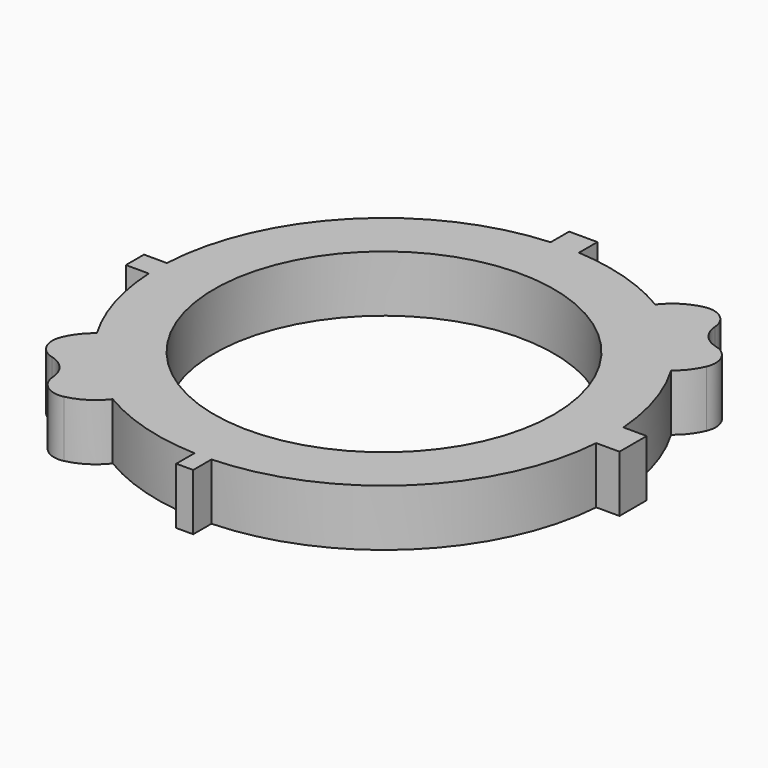
from build123d import *

# Parameters (mm, degrees)
F0_R     = 38.1
F1_DEPTH = 12.7
F2_R     = 5.08


with BuildPart() as f1:
    # F0 (on Top) → F1 (new body)
    with BuildSketch(Plane.XY):
        with BuildLine():
            ThreePointArc((50.656924, -3.81), (50.764218, -1.906343), (50.8, 0))
            ThreePointArc((50.8, 0), (50.764218, 1.906343), (50.656924, 3.81))
            ThreePointArc((50.656924, 3.81), (48.456851, 15.250362), (43.708314, 25.888671))
            ThreePointArc((43.708314, 25.888671), (35.921024, 35.921024), (25.888671, 43.708314))
            ThreePointArc((25.888671, 43.708314), (14.94649, 48.551441), (3.175, 50.700684))
            ThreePointArc((3.175, 50.700684), (0, 50.8), (-3.175, 50.700684))
            ThreePointArc((-3.175, 50.700684), (-36.145183, 35.695458), (-50.73646, 2.54))
            ThreePointArc((-50.73646, 2.54), (-50.8, 0), (-50.73646, -2.54))
            ThreePointArc((-50.73646, -2.54), (-48.644054, -14.642269), (-43.708314, -25.888671))
            ThreePointArc((-43.708314, -25.888671), (-35.921024, -35.921024), (-25.888671, -43.708314))
            ThreePointArc((-25.888671, -43.708314), (-14.337666, -48.734704), (-1.905, -50.764269))
            ThreePointArc((-1.905, -50.764269), (0, -50.8), (1.905, -50.764269))
            ThreePointArc((1.905, -50.764269), (35.240102, -36.589277), (50.656924, -3.81))
        make_face()
        Circle(F0_R, mode=Mode.SUBTRACT)
        with BuildLine():
            ThreePointArc((50.656924, 3.81), (50.764218, 1.906343), (50.8, 0))
            ThreePointArc((50.8, 0), (50.764218, -1.906343), (50.656924, -3.81))
            Line((50.656924, -3.81), (55.88, -3.81))
            Line((55.88, -3.81), (55.88, 3.81))
            Line((55.88, 3.81), (50.656924, 3.81))
        make_face()
        with BuildLine():
            ThreePointArc((25.888671, 43.708314), (35.921024, 35.921024), (43.708314, 25.888671))
            ThreePointArc((43.708314, 25.888671), (47.804199, 31.439935), (48.393645, 38.31346))
            ThreePointArc((48.393645, 38.31346), (40.798679, 39.986856), (40.520196, 47.758998))
            ThreePointArc((40.520196, 47.758998), (32.532533, 48.160637), (25.888671, 43.708314))
        make_face()
        with BuildLine():
            Line((1.905, -55.88), (1.905, -50.764269))
            ThreePointArc((1.905, -50.764269), (0, -50.8), (-1.905, -50.764269))
            Line((-1.905, -50.764269), (-1.905, -55.88))
            Line((-1.905, -55.88), (1.905, -55.88))
        make_face()
        with BuildLine():
            ThreePointArc((-3.175, 50.700684), (0, 50.8), (3.175, 50.700684))
            Line((3.175, 50.700684), (3.175, 55.88))
            Line((3.175, 55.88), (-3.175, 55.88))
            Line((-3.175, 55.88), (-3.175, 50.700684))
        make_face()
        with BuildLine():
            ThreePointArc((-40.520196, -47.758998), (-32.532533, -48.160637), (-25.888671, -43.708314))
            ThreePointArc((-25.888671, -43.708314), (-35.921024, -35.921024), (-43.708314, -25.888671))
            ThreePointArc((-43.708314, -25.888671), (-47.804199, -31.439935), (-48.393645, -38.31346))
            ThreePointArc((-48.393645, -38.31346), (-40.798679, -39.986856), (-40.520196, -47.758998))
        make_face()
        with BuildLine():
            ThreePointArc((-50.73646, -2.54), (-50.8, 0), (-50.73646, 2.54))
            Line((-50.73646, 2.54), (-55.88, 2.54))
            Line((-55.88, 2.54), (-55.88, -2.54))
            Line((-55.88, -2.54), (-50.73646, -2.54))
        make_face()
    extrude(amount=F1_DEPTH)

    # F2
    f2_edges = [f1.edges().sort_by_distance(p)[0] for p in [
        (-48.393645, -38.31346, 6.35),
        (-40.520196, -47.758998, 6.35),
        (40.520196, 47.758998, 6.35),
        (48.393645, 38.31346, 6.35),
    ]]
    fillet(f2_edges, radius=F2_R)


solid = f1.part
